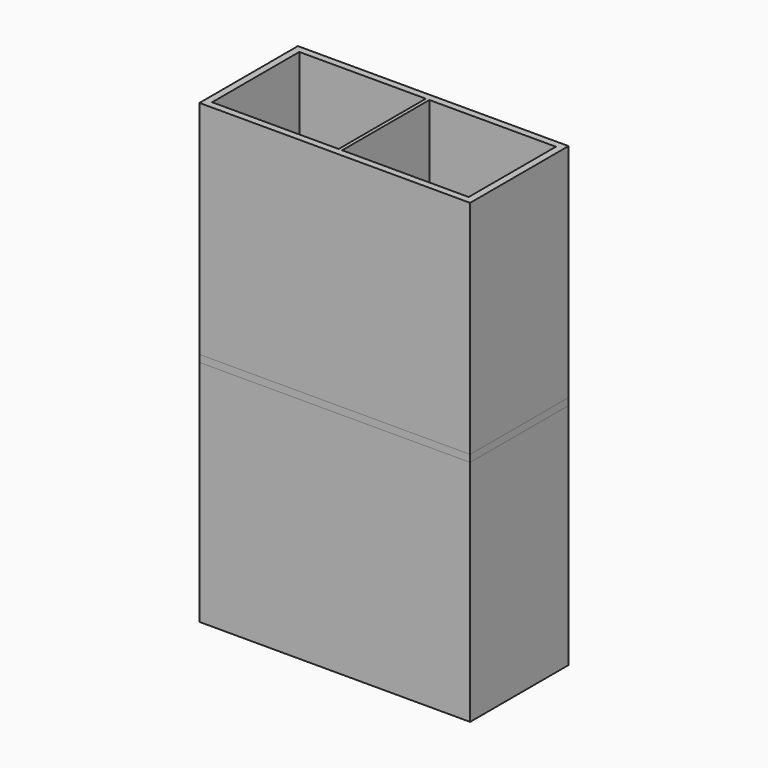
from build123d import *

# Parameters (mm, degrees)
F0_W     = 77
F0_H     = 35
F0_W_2   = 36
F0_H_2   = 31
F1_DEPTH = 65
F2_DEPTH = 2


with BuildPart() as f1:
    # F0 (on Top) → F1 (new body, symmetric)
    with BuildSketch(Plane.XY):
        Rectangle(F0_W, F0_H)
        with Locations((-18.5, 0)):
            Rectangle(F0_W_2, F0_H_2, mode=Mode.SUBTRACT)
        with Locations((18.5, 0)):
            Rectangle(F0_W_2, F0_H_2, mode=Mode.SUBTRACT)
    extrude(amount=F1_DEPTH, both=True)


with BuildPart() as f2:
    # F0 (on Top) → F2 (new body)
    with BuildSketch(Plane.XY):
        Rectangle(F0_W, F0_H)
        with Locations((-18.5, 0)):
            Rectangle(F0_W_2, F0_H_2, mode=Mode.SUBTRACT)
        with Locations((18.5, 0)):
            Rectangle(F0_W_2, F0_H_2, mode=Mode.SUBTRACT)
        with Locations((18.5, 0)):
            Rectangle(F0_W_2, F0_H_2)
        with Locations((-18.5, 0)):
            Rectangle(F0_W_2, F0_H_2)
    extrude(amount=F2_DEPTH)


solid = Compound([f1.part, f2.part])
